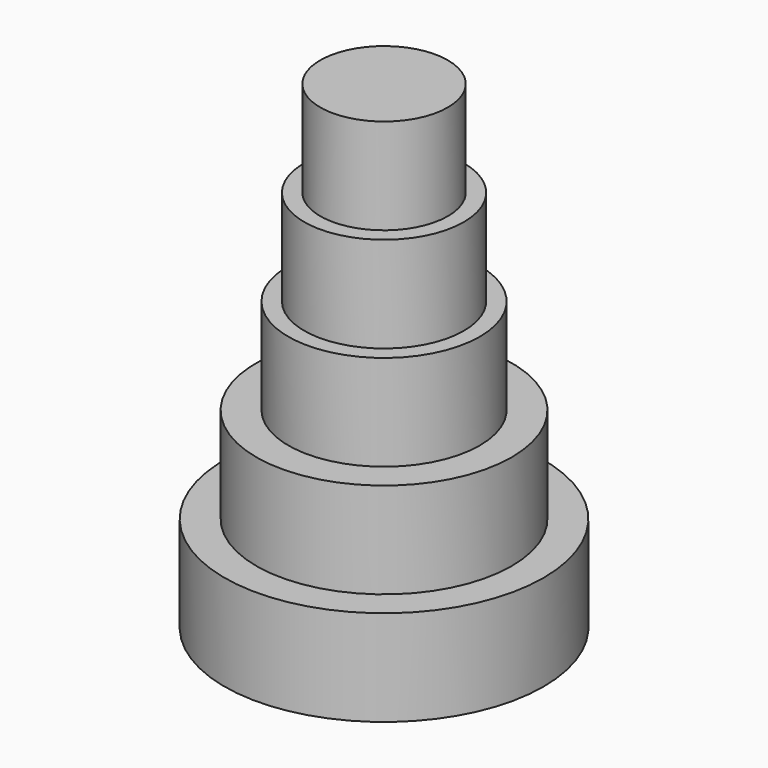
from build123d import *

# Parameters (mm, degrees)
F0_R     = 5
F1_DEPTH = 3
F2_R     = 4
F3_DEPTH = 3
F4_R     = 3
F5_DEPTH = 3
F6_R     = 2.5
F7_DEPTH = 3
F8_R     = 2
F9_DEPTH = 3


with BuildPart() as f1:
    # F0 (on Top) → F1 (new body)
    with BuildSketch(Plane.XY):
        Circle(F0_R)
    extrude(amount=F1_DEPTH)

    # F2 (on face) → F3 (join)
    with BuildSketch(Plane.XY.offset(3)):
        Circle(F2_R)
    extrude(amount=F3_DEPTH)

    # F4 (on face) → F5 (join)
    with BuildSketch(Plane.XY.offset(6)):
        Circle(F4_R)
    extrude(amount=F5_DEPTH)

    # F6 (on face) → F7 (join)
    with BuildSketch(Plane.XY.offset(9)):
        Circle(F6_R)
    extrude(amount=F7_DEPTH)

    # F8 (on face) → F9 (join)
    with BuildSketch(Plane.XY.offset(12)):
        Circle(F8_R)
    extrude(amount=F9_DEPTH)


solid = f1.part
